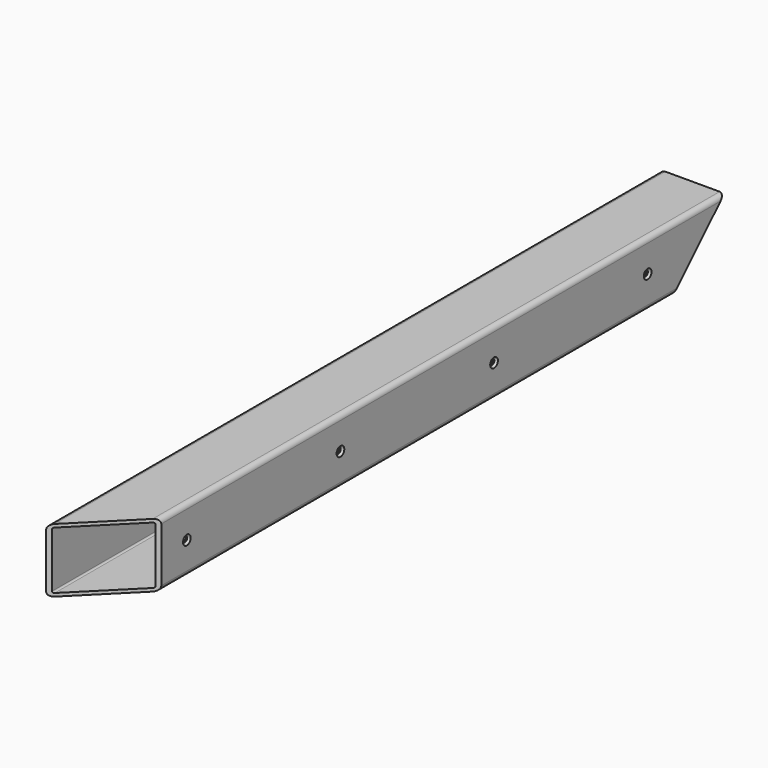
from build123d import *

# Parameters (mm, degrees)
F2_W            = 40
F2_H            = 40
F3_DEPTH        = 240
F4_R            = 3
F5_T            = -2
F7_DEPTH        = 40.001
F9_DEPTH        = 40.001
F11_D           = 3.5
F11_CSINK_D     = 6
F11_CSINK_ANGLE = 90


with BuildPart() as f3:
    # F2 (on Front) → F3 (new body, symmetric)
    with BuildSketch(Plane.XZ):
        Rectangle(F2_W, F2_H)
    extrude(amount=F3_DEPTH, both=True)

    # F4
    f4_edges = [f3.edges().sort_by_distance(p)[0] for p in [
        (20, 0, 20),
        (-20, 0, 20),
        (20, 0, -20),
        (-20, 0, -20),
    ]]
    fillet(f4_edges, radius=F4_R)

    # F5
    f5_openings = [f3.faces().sort_by_distance(p)[0] for p in [
        (0, -240, 0),
        (0, 240, 0),
    ]]
    offset(amount=F5_T, openings=f5_openings)

    # F6 (on face) → F7 (cut, through all)
    with BuildSketch(Plane(origin=(-20, 0, 0), x_dir=(0, -1, 0), z_dir=(-1, 0, 0))):
        Polygon((-240, 20), (-240, -20), (-200, -20), align=None)
    extrude(amount=-F7_DEPTH, mode=Mode.SUBTRACT)

    # F8 (on face) → F9 (cut, through all)
    with BuildSketch(Plane.XY.offset(20)):
        Polygon((20, -240), (20, -200), (-20, -240), align=None)
    extrude(amount=-F9_DEPTH, mode=Mode.SUBTRACT)

    # F11 (through all)
    with Locations(Plane.YZ.offset(20)):
        with Locations((180, 0), (60, 0), (-60, 0), (-180, 0)):
            CounterSinkHole(F11_D / 2, F11_CSINK_D / 2, counter_sink_angle=F11_CSINK_ANGLE)


solid = f3.part
